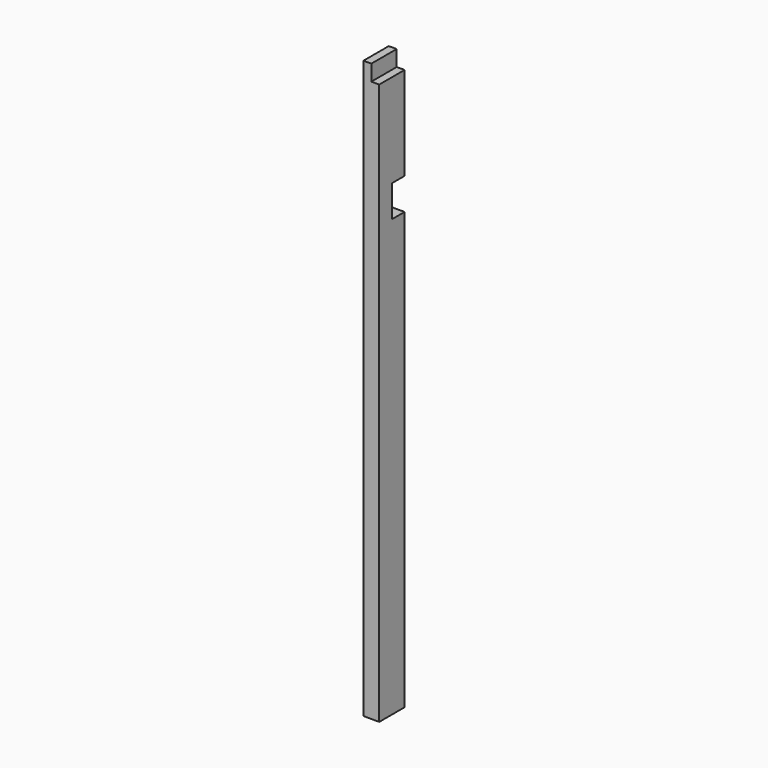
from build123d import *

# Parameters (mm, degrees)
F0_W     = 50.8
F0_H     = 101.6
F1_DEPTH = 1850
F2_W     = 50.8
F2_H     = 101.6
F3_DEPTH = 50
F4_W     = 25.4
F4_H     = 101.6
F5_DEPTH = 50.8


with BuildPart() as f1:
    # F0 (on Top) → F1 (new body)
    with BuildSketch(Plane.XY):
        Rectangle(F0_W, F0_H)
    extrude(amount=F1_DEPTH)

    # F2 (on Right) → F3 (cut, symmetric)
    with BuildSketch(Plane.YZ):
        with Locations((25.4, 1449.2)):
            Rectangle(F2_W, F2_H)
    extrude(amount=F3_DEPTH, both=True, mode=Mode.SUBTRACT)

    # F4 (on face) → F5 (cut)
    with BuildSketch(Plane.XY.offset(1850)):
        with Locations((12.7, 0)):
            Rectangle(F4_W, F4_H)
    extrude(amount=-F5_DEPTH, mode=Mode.SUBTRACT)


solid = f1.part
